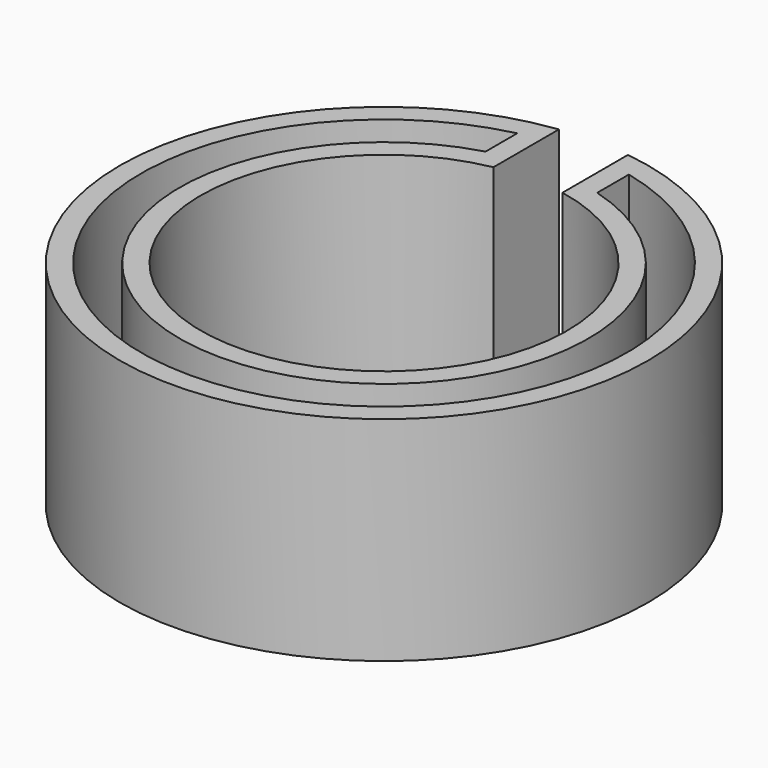
from build123d import *

# Parameters (mm, degrees)
F0_R     = 31
F0_R_2   = 21.5
F1_DEPTH = 25
F2_W     = 8.098436
F2_H     = 15.167526
F3_DEPTH = 25
F4_T     = -2.5


with BuildPart() as f1:
    # F0 (on Top) → F1 (new body)
    with BuildSketch(Plane.XY):
        Circle(F0_R)
        Circle(F0_R_2, mode=Mode.SUBTRACT)
    extrude(amount=F1_DEPTH)

    # F2 (on face) → F3 (cut)
    with BuildSketch(Plane.XY.offset(25)):
        with Locations((0, 25.295008)):
            Rectangle(F2_W, F2_H)
    extrude(amount=-F3_DEPTH, mode=Mode.SUBTRACT)

    # F4
    f4_openings = [f1.faces().sort_by_distance(p)[0] for p in [
        (0, -30.125064, 0),
        (-4.924154, 25.92483, 25),
    ]]
    offset(amount=F4_T, openings=f4_openings)


solid = f1.part
